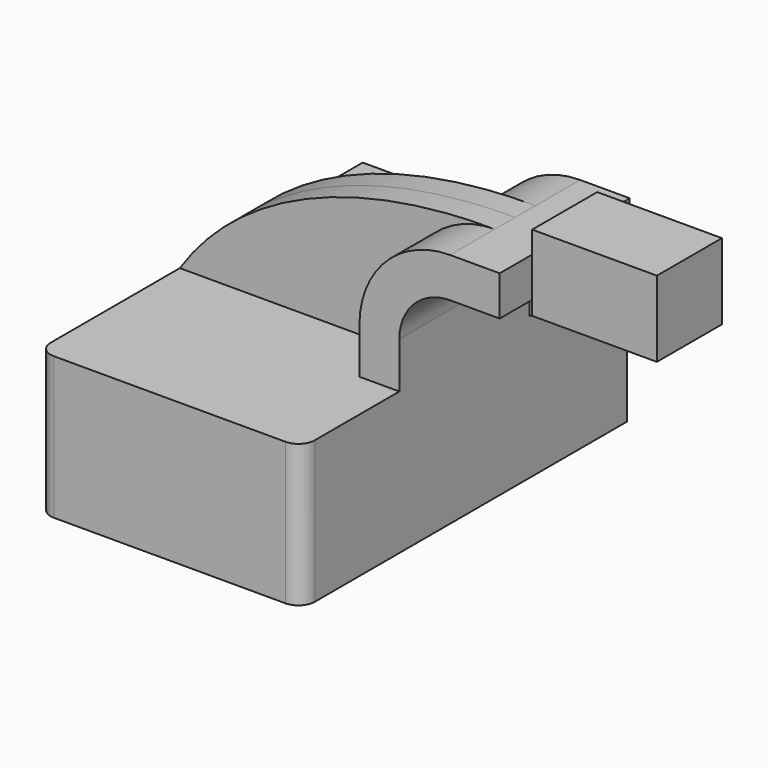
from build123d import *

# Parameters (mm, degrees)
F1_DEPTH = 63.5
F2_DEPTH = 25.4
F3_DEPTH = 7.9375
F4_R     = 5.08
F5_DEPTH = 12.7


with BuildPart() as f1:
    # F0 (on Front) → F1 (new body, symmetric)
    with BuildSketch(Plane.XZ):
        Polygon((41.275, -22.225), (41.275, 22.225), (28.829001, 22.225), (-41.275, 22.225), (-41.275, -22.225), align=None)
    extrude(amount=F1_DEPTH, both=True)

    # F0 (on Front) → F2 (join, symmetric)
    with BuildSketch(Plane.XZ):
        with BuildLine():
            Line((28.829001, 22.225), (41.275, 22.225))
            Line((41.275, 22.225), (41.275, 36.622151))
            ThreePointArc((41.275, 36.622151), (45.92468, 47.847471), (57.15, 52.497151))
            Line((57.15, 52.497151), (72.650053, 52.497151))
            Line((72.650053, 52.497151), (72.650053, 64.94315))
            Line((72.650053, 64.94315), (57.15, 64.94315))
            ThreePointArc((57.15, 64.94315), (37.124029, 56.648122), (28.829001, 36.622151))
            Line((28.829001, 36.622151), (28.829001, 22.225))
        make_face()
    extrude(amount=F2_DEPTH, both=True)

    # F0 (on Front) → F3 (join, symmetric)
    with BuildSketch(Plane.XZ):
        with BuildLine():
            Line((-41.275, 22.225), (28.829001, 22.225))
            Line((28.829001, 22.225), (28.829001, 36.622151))
            ThreePointArc((28.829001, 36.622151), (37.124029, 56.648122), (57.15, 64.94315))
            add(Edge.make_bspline(
                [(-41.275, 22.225), (-22.058656, 51.323876), (15.271166, 65.268377), (57.15, 64.94315)],
                knots=[0, 0, 0, 0, 107.295484, 107.295484, 107.295484, 107.295484], degree=3))
        make_face()
    extrude(amount=F3_DEPTH, both=True)

    # F4
    f4_edges = [f1.edges().sort_by_distance(p)[0] for p in [
        (41.275, -63.5, 0),
        (-41.275, -63.5, 0),
    ]]
    fillet(f4_edges, radius=F4_R)

    # F0 (on Front) → F5 (join, symmetric)
    with BuildSketch(Plane.XZ):
        Polygon((72.650053, 64.94315), (72.650053, 52.497151), (72.650053, 48.080355), (111.622654, 48.080355), (111.622654, 71.80281), (72.650053, 71.80281), align=None)
    extrude(amount=F5_DEPTH, both=True)


solid = f1.part
